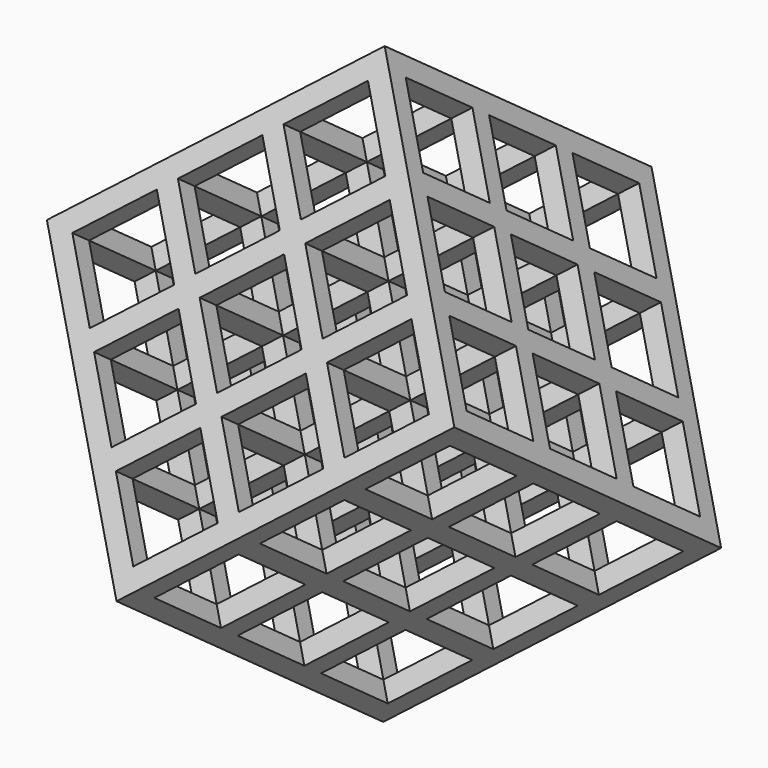
from build123d import *

# Parameters (mm, degrees)
F0_W     = 101.6
F0_H     = 101.6
F0_W_2   = 25.4
F0_H_2   = 25.4
F1_DEPTH = 101.6
F2_W     = 25.4
F2_H     = 25.4
F3_DEPTH = 101.6
F4_W     = 25.4
F4_H     = 25.4
F5_DEPTH = 101.6
F6_ANGLE = 45
F7_ANGLE = -45
F8_ANGLE = 12
F9_ANGLE = 6


with BuildPart() as f1:
    # F0 (on Top) → F1 (new body)
    with BuildSketch(Plane.XY):
        Rectangle(F0_W, F0_H)
        with Locations((-31.75, -31.75)):
            Rectangle(F0_W_2, F0_H_2, mode=Mode.SUBTRACT)
        with Locations((0, -31.75)):
            Rectangle(F0_W_2, F0_H_2, mode=Mode.SUBTRACT)
        with Locations((-31.75, 0)):
            Rectangle(F0_W_2, F0_H_2, mode=Mode.SUBTRACT)
        Rectangle(F0_W_2, F0_H_2, mode=Mode.SUBTRACT)
        with Locations((31.75, -31.75)):
            Rectangle(F0_W_2, F0_H_2, mode=Mode.SUBTRACT)
        with Locations((31.75, 0)):
            Rectangle(F0_W_2, F0_H_2, mode=Mode.SUBTRACT)
        with Locations((-31.75, 31.75)):
            Rectangle(F0_W_2, F0_H_2, mode=Mode.SUBTRACT)
        with Locations((0, 31.75)):
            Rectangle(F0_W_2, F0_H_2, mode=Mode.SUBTRACT)
        with Locations((31.75, 31.75)):
            Rectangle(F0_W_2, F0_H_2, mode=Mode.SUBTRACT)
    extrude(amount=F1_DEPTH)

    # F2 (on face) → F3 (cut)
    with BuildSketch(Plane(origin=(0, 50.8, 0), x_dir=(-1, 0, 0), z_dir=(0, 1, 0))):
        with Locations((31.75, 19.05)):
            Rectangle(F2_W, F2_H)
        with Locations((0, 19.05)):
            Rectangle(F2_W, F2_H)
        with Locations((-31.75, 19.05)):
            Rectangle(F2_W, F2_H)
        with Locations((-31.75, 50.8)):
            Rectangle(F2_W, F2_H)
        with Locations((0, 50.8)):
            Rectangle(F2_W, F2_H)
        with Locations((31.75, 50.8)):
            Rectangle(F2_W, F2_H)
        with Locations((31.75, 82.55)):
            Rectangle(F2_W, F2_H)
        with Locations((0, 82.55)):
            Rectangle(F2_W, F2_H)
        with Locations((-31.75, 82.55)):
            Rectangle(F2_W, F2_H)
    extrude(amount=-F3_DEPTH, mode=Mode.SUBTRACT)

    # F4 (on face) → F5 (cut)
    with BuildSketch(Plane.YZ.offset(50.8)):
        with Locations((31.75, 82.55)):
            Rectangle(F4_W, F4_H)
        with Locations((31.75, 50.8)):
            Rectangle(F4_W, F4_H)
        with Locations((31.75, 19.05)):
            Rectangle(F4_W, F4_H)
        with Locations((0, 19.05)):
            Rectangle(F4_W, F4_H)
        with Locations((0, 50.8)):
            Rectangle(F4_W, F4_H)
        with Locations((0, 82.55)):
            Rectangle(F4_W, F4_H)
        with Locations((-31.75, 82.55)):
            Rectangle(F4_W, F4_H)
        with Locations((-31.75, 50.8)):
            Rectangle(F4_W, F4_H)
        with Locations((-31.75, 19.05)):
            Rectangle(F4_W, F4_H)
    extrude(amount=-F5_DEPTH, mode=Mode.SUBTRACT)


with BuildPart() as f1_1:
    # F6: moved
    add(f1.part.rotate(Axis((0, -50.8, 0), (1, 0, 0)), F6_ANGLE))


with BuildPart() as f1_2:
    # F7: moved
    add(f1_1.part.rotate(Axis((-50.8, -86.7210244843, 35.9210244843), (0, 0.7071067812, -0.7071067812)), F7_ANGLE))


with BuildPart() as f1_3:
    # F8: moved
    add(f1_2.part.rotate(Axis((-86.7210244843, -97.2420489686, 97.2420489686), (0.7071067812, -0.5, -0.5)), F8_ANGLE))


with BuildPart() as f1_4:
    # F9: moved
    add(f1_3.part.rotate(Axis((-43.3315990636, -82.2250281066, 41.9869420001), (0.1470157665, 0.7956106469, -0.5876989561)), F9_ANGLE))


solid = f1_4.part
